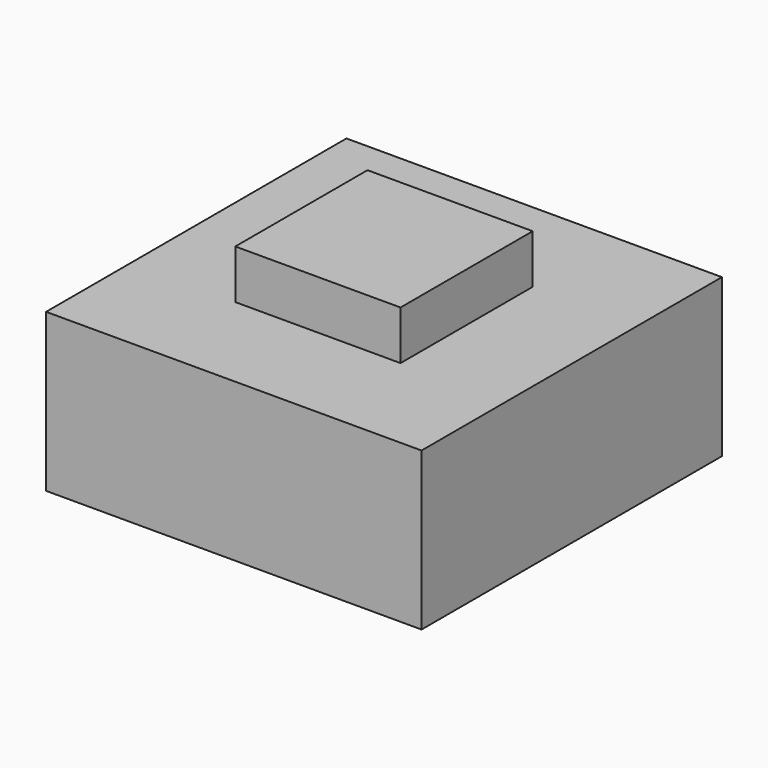
from build123d import *

# Parameters (mm, degrees)
F1_DEPTH = 44
F2_DEPTH = 72
F3_DEPTH = 28


with BuildPart() as f1:
    # F0 (on Front) → F1 (new body)
    with BuildSketch(Plane.XZ):
        Polygon((22, 13.045934), (0, 13.045934), (-22, 13.045934), (-22, 0), (22, 0), align=None)
    extrude(amount=F1_DEPTH)

    # F0 (on Front) → F2 (join)
    with BuildSketch(Plane.XZ):
        Polygon((50, 0), (22, 0), (-22, 0), (-50, 0), (-50, -41.984189), (0, -41.984189), (50, -41.984189), align=None)
    extrude(amount=F2_DEPTH)

    # F0 (on Front) → F3 (join)
    with BuildSketch(Plane.XZ):
        Polygon((50, 0), (22, 0), (-22, 0), (-50, 0), (-50, -41.984189), (0, -41.984189), (50, -41.984189), align=None)
    extrude(amount=-F3_DEPTH)


solid = f1.part
